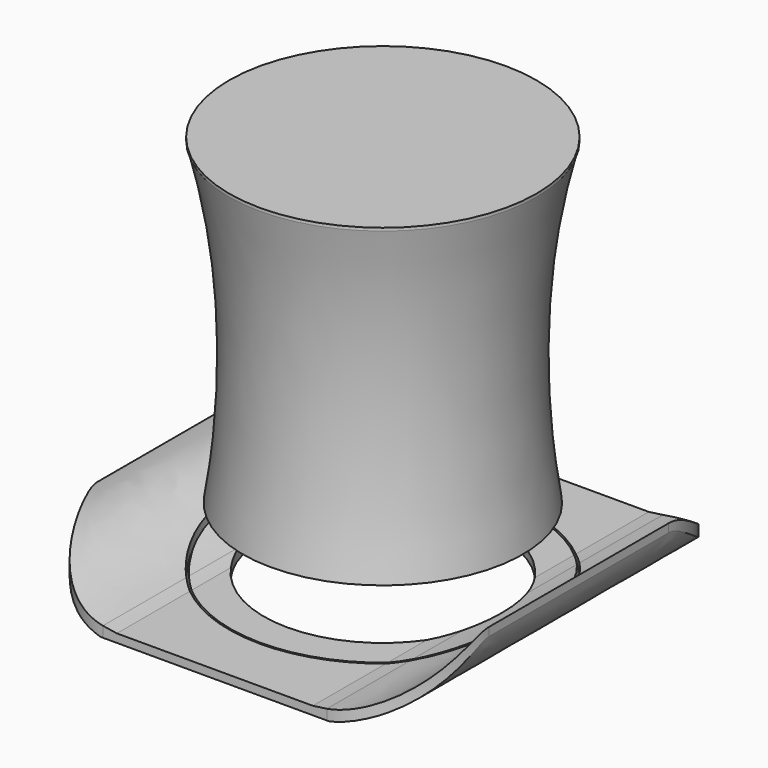
from build123d import *

# Parameters (mm, degrees)
F0_R      = 55
F1_DEPTH  = 140
F2_R      = 42.5
F3_DEPTH  = 120
F6_W      = 1.0584075363
F6_H      = 70
F9_DEPTH  = 25
F11_DEPTH = 25
F13_DEPTH = 150
F14_DEPTH = 50
F15_DEPTH = 150
F16_DEPTH = 150
F17_DEPTH = 150


with BuildPart() as f1:
    # F0 (on Top) → F1 (new body)
    with BuildSketch(Plane.XY):
        Circle(F0_R)
    extrude(amount=F1_DEPTH)

    # F2 (on face) → F3 (cut)
    with BuildSketch(Plane(origin=(0, 0, 0), x_dir=(1, 0, 0), z_dir=(0, 0, -1))):
        Circle(F2_R)
    extrude(amount=-F3_DEPTH, mode=Mode.SUBTRACT)

    # F4 (on Front) → F5 (revolve, cut)
    with BuildSketch(Plane.XZ):
        with BuildLine():
            add(Edge.make_bspline(
                [(-54.8770166934, 139.9133056402), (-42.3931442201, 93.0987894535), (-44.2137084901, 43.6834655702), (-55.1370978355, 0)],
                knots=[0, 0, 0, 0, 139.913547369, 139.913547369, 139.913547369, 139.913547369], degree=3))
            Line((-54.8770166934, 139.9133056402), (-55.1370978355, 0))
        make_face()
    revolve(axis=Axis((0, 0, 0), (0, 0, 1)), mode=Mode.SUBTRACT)

    # F6 (on Front) → F7 (revolve, cut)
    with BuildSketch(Plane.XZ):
        with Locations((-55.408006534, 107.2785072029)):
            Rectangle(F6_W, F6_H)
    revolve(axis=Axis((0, 0, 140), (0, 0, 1)), mode=Mode.SUBTRACT)

    # F8 (on Top) → F9 (join)
    with BuildSketch(Plane.XY):
        with BuildLine():
            Line((70, 0), (55, 0))
            ThreePointArc((55, 0), (38.8908729653, -38.8908729653), (0, -55))
            Line((0, -55), (0, -75))
            Line((0, -75), (70, -75))
            Line((70, -75), (70, 0))
        make_face()
        with BuildLine():
            ThreePointArc((0, 55), (38.8908729653, 38.8908729653), (55, 0))
            Line((55, 0), (70, 0))
            Line((70, 0), (70, 75))
            Line((70, 75), (0, 75))
            Line((0, 75), (0, 55))
        make_face()
        with BuildLine():
            Line((0, -75), (0, -55))
            ThreePointArc((0, -55), (-38.8908729653, -38.8908729653), (-55, 0))
            Line((-55, 0), (-70, 0))
            Line((-70, 0), (-70, -75))
            Line((-70, -75), (0, -75))
        make_face()
        with BuildLine():
            ThreePointArc((-55, 0), (-38.8908729653, 38.8908729653), (0, 55))
            Line((0, 55), (0, 75))
            Line((0, 75), (-70, 75))
            Line((-70, 75), (-70, 0))
            Line((-70, 0), (-55, 0))
        make_face()
    extrude(amount=F9_DEPTH)

    # F10 (on face) → F11 (cut)
    with BuildSketch(Plane.XY.offset(25)):
        with BuildLine():
            Line((-40, 75), (-70, 75))
            Line((-70, 75), (-70, 40))
            add(Edge.make_bspline(
                [(-40, 75), (-55, 75), (-70, 60.3387132287), (-70, 40)],
                knots=[0, 0, 0, 0, 46.0977222865, 46.0977222865, 46.0977222865, 46.0977222865], degree=3))
        make_face()
        with BuildLine():
            Line((70, 75), (40, 75))
            add(Edge.make_bspline(
                [(40, 75), (55, 75), (70, 60.0786320865), (70, 40)],
                knots=[0, 0, 0, 0, 46.0977222865, 46.0977222865, 46.0977222865, 46.0977222865], degree=3))
            Line((70, 40), (70, 75))
        make_face()
        with BuildLine():
            Line((70, -75), (70, -40))
            add(Edge.make_bspline(
                [(40, -75), (55, -75), (70, -57.5), (70, -40)],
                knots=[0, 0, 0, 0, 46.0977222865, 46.0977222865, 46.0977222865, 46.0977222865], degree=3))
            Line((40, -75), (70, -75))
        make_face()
        with BuildLine():
            add(Edge.make_bspline(
                [(-70, -40), (-70, -57.5), (-55, -75), (-40, -75)],
                knots=[0, 0, 0, 0, 46.0977222865, 46.0977222865, 46.0977222865, 46.0977222865], degree=3))
            Line((-70, -40), (-70, -75))
            Line((-70, -75), (-40, -75))
        make_face()
    extrude(amount=-F11_DEPTH, mode=Mode.SUBTRACT)

    # F12 (on face) → F13 (cut)
    with BuildSketch(Plane.XZ.offset(75)):
        with BuildLine():
            Line((70, 25), (40, 25))
            Line((40, 25), (40, 3.6897488515))
            add(Edge.make_bspline(
                [(40, 3.6897488515), (53.7644855635, 6.0447320325), (66.6470209848, 12.2225720024), (70, 25)],
                knots=[4.4464361346, 4.4464361346, 4.4464361346, 4.4464361346, 41.3400532172, 41.3400532172, 41.3400532172, 41.3400532172], degree=3))
        make_face()
        with BuildLine():
            Line((70, 3), (70, 22))
            add(Edge.make_bspline(
                [(51.6541431072, 3), (61.0656260342, 6.5088813953), (68.3513576037, 12.189831012), (70, 22)],
                knots=[9.5267779546, 9.5267779546, 9.5267779546, 9.5267779546, 36.4005494464, 36.4005494464, 36.4005494464, 36.4005494464], degree=3))
            Line((51.6541431072, 3), (70, 3))
        make_face()
        with BuildLine():
            Line((40, 25), (0, 25))
            Line((0, 25), (0, 3))
            Line((0, 3), (35, 3))
            add(Edge.make_bspline(
                [(35, 3), (36.6693849254, 3.1776291824), (38.3410977068, 3.4059251676), (40, 3.6897488515)],
                knots=[0, 0, 0, 0, 4.4464361346, 4.4464361346, 4.4464361346, 4.4464361346], degree=3))
            Line((40, 3.6897488515), (40, 25))
        make_face()
        with BuildLine():
            Line((-40, 25), (-40, 3.7838950453))
            add(Edge.make_bspline(
                [(-40, 3.7838950453), (-38.3409188066, 3.4658686973), (-36.6690418946, 3.2048207352), (-35, 3)],
                knots=[37.0216951017, 37.0216951017, 37.0216951017, 37.0216951017, 41.3400532172, 41.3400532172, 41.3400532172, 41.3400532172], degree=3))
            Line((-35, 3), (0, 3))
            Line((0, 3), (0, 25))
            Line((0, 25), (-40, 25))
        make_face()
        with BuildLine():
            Line((-40, 25), (-70, 25))
            add(Edge.make_bspline(
                [(-70, 25), (-67.506462702, 13.424630513), (-54.2234609654, 6.5103651934), (-40, 3.7838950453)],
                knots=[0, 0, 0, 0, 37.0216951017, 37.0216951017, 37.0216951017, 37.0216951017], degree=3))
            Line((-40, 3.7838950453), (-40, 25))
        make_face()
        with BuildLine():
            Line((-70, 22), (-70, 3))
            Line((-70, 3), (-51.6869634138, 3))
            add(Edge.make_bspline(
                [(-70, 22), (-67.4238260401, 10.5717337182), (-59.9057889627, 5.8381369266), (-51.6869634138, 3)],
                knots=[0, 0, 0, 0, 25.430478325, 25.430478325, 25.430478325, 25.430478325], degree=3))
        make_face()
    extrude(amount=F13_DEPTH, mode=Mode.SUBTRACT)

    # F2 (on face) → F14 (cut)
    with BuildSketch(Plane(origin=(0, 0, 0), x_dir=(1, 0, 0), z_dir=(0, 0, -1))):
        Circle(F2_R)
    extrude(amount=-F14_DEPTH, mode=Mode.SUBTRACT)

    # F12 (on face) → F15 (cut)
    with BuildSketch(Plane.XZ.offset(75)):
        with BuildLine():
            Line((-70, 22), (-70, 3))
            Line((-70, 3), (-51.6869634138, 3))
            add(Edge.make_bspline(
                [(-70, 22), (-67.4238260401, 10.5717337182), (-59.9057889627, 5.8381369266), (-51.6869634138, 3)],
                knots=[0, 0, 0, 0, 25.430478325, 25.430478325, 25.430478325, 25.430478325], degree=3))
        make_face()
        with BuildLine():
            Line((-70, 3), (-70, 0))
            Line((-70, 0), (-41, 0))
            add(Edge.make_bspline(
                [(-51.6869634138, 3), (-48.1415680165, 1.7756988469), (-44.4657668583, 0.9041130935), (-41, 0)],
                knots=[25.430478325, 25.430478325, 25.430478325, 25.430478325, 36.4005494464, 36.4005494464, 36.4005494464, 36.4005494464], degree=3))
            Line((-51.6869634138, 3), (-70, 3))
        make_face()
        with BuildLine():
            Line((70, 3), (70, 22))
            add(Edge.make_bspline(
                [(51.6541431072, 3), (61.0656260342, 6.5088813953), (68.3513576037, 12.189831012), (70, 22)],
                knots=[9.5267779546, 9.5267779546, 9.5267779546, 9.5267779546, 36.4005494464, 36.4005494464, 36.4005494464, 36.4005494464], degree=3))
            Line((51.6541431072, 3), (70, 3))
        make_face()
        with BuildLine():
            Line((70, 3), (51.6541431072, 3))
            add(Edge.make_bspline(
                [(41, 0), (44.714238368, 0.7851621555), (48.3177633178, 1.7560981557), (51.6541431072, 3)],
                knots=[0, 0, 0, 0, 9.5267779546, 9.5267779546, 9.5267779546, 9.5267779546], degree=3))
            Line((41, 0), (70, 0))
            Line((70, 0), (70, 3))
        make_face()
    extrude(amount=-F15_DEPTH, mode=Mode.SUBTRACT)

    # F12 (on face) → F16 (cut)
    with BuildSketch(Plane.XZ.offset(75)):
        with BuildLine():
            Line((-40, 25), (-70, 25))
            add(Edge.make_bspline(
                [(-70, 25), (-67.506462702, 13.424630513), (-54.2234609654, 6.5103651934), (-40, 3.7838950453)],
                knots=[0, 0, 0, 0, 37.0216951017, 37.0216951017, 37.0216951017, 37.0216951017], degree=3))
            Line((-40, 3.7838950453), (-40, 25))
        make_face()
        with BuildLine():
            Line((-40, 25), (-40, 3.7838950453))
            add(Edge.make_bspline(
                [(-40, 3.7838950453), (-38.3409188066, 3.4658686973), (-36.6690418946, 3.2048207352), (-35, 3)],
                knots=[37.0216951017, 37.0216951017, 37.0216951017, 37.0216951017, 41.3400532172, 41.3400532172, 41.3400532172, 41.3400532172], degree=3))
            Line((-35, 3), (0, 3))
            Line((0, 3), (0, 25))
            Line((0, 25), (-40, 25))
        make_face()
        with BuildLine():
            Line((40, 25), (0, 25))
            Line((0, 25), (0, 3))
            Line((0, 3), (35, 3))
            add(Edge.make_bspline(
                [(35, 3), (36.6693849254, 3.1776291824), (38.3410977068, 3.4059251676), (40, 3.6897488515)],
                knots=[0, 0, 0, 0, 4.4464361346, 4.4464361346, 4.4464361346, 4.4464361346], degree=3))
            Line((40, 3.6897488515), (40, 25))
        make_face()
        with BuildLine():
            Line((70, 25), (40, 25))
            Line((40, 25), (40, 3.6897488515))
            add(Edge.make_bspline(
                [(40, 3.6897488515), (53.7644855635, 6.0447320325), (66.6470209848, 12.2225720024), (70, 25)],
                knots=[4.4464361346, 4.4464361346, 4.4464361346, 4.4464361346, 41.3400532172, 41.3400532172, 41.3400532172, 41.3400532172], degree=3))
        make_face()
    extrude(amount=-F16_DEPTH, mode=Mode.SUBTRACT)

    # F12 (on face) → F17 (cut)
    with BuildSketch(Plane.XZ.offset(75)):
        with BuildLine():
            Line((-70, 3), (-70, 0))
            Line((-70, 0), (-41, 0))
            add(Edge.make_bspline(
                [(-51.6869634138, 3), (-48.1415680165, 1.7756988469), (-44.4657668583, 0.9041130935), (-41, 0)],
                knots=[25.430478325, 25.430478325, 25.430478325, 25.430478325, 36.4005494464, 36.4005494464, 36.4005494464, 36.4005494464], degree=3))
            Line((-51.6869634138, 3), (-70, 3))
        make_face()
    extrude(amount=-F17_DEPTH, mode=Mode.SUBTRACT)


solid = f1.part
